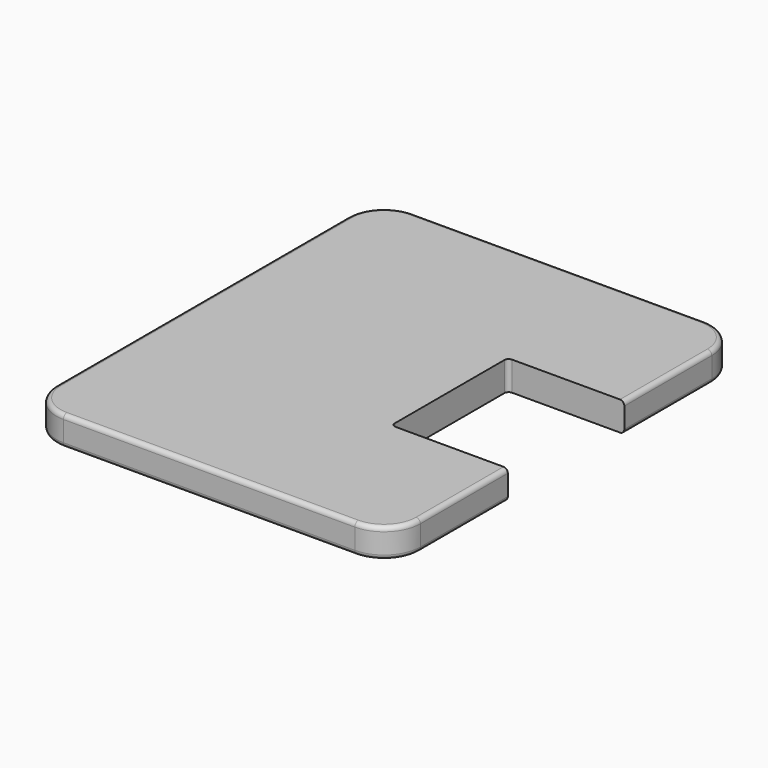
from build123d import *

# Parameters (mm, degrees)
F1_DEPTH = 20
F2_R     = 3
F3_W     = 3
F3_H     = 18
F4_DEPTH = 25
F6_W     = 3
F6_H     = 64
F7_DEPTH = 25


with BuildPart() as f1:
    # F0 (on Top) → F1 (new body)
    with BuildSketch(Plane.XY):
        with BuildLine():
            Line((-100, -150), (100, -150))
            ThreePointArc((100, -150), (117.67767, -142.67767), (125, -125))
            Line((125, -125), (125, 125))
            ThreePointArc((125, 125), (117.67767, 142.67767), (100, 150))
            Line((100, 150), (-100, 150))
            ThreePointArc((-100, 150), (-117.67767, 142.67767), (-125, 125))
            Line((-125, 125), (-125, -125))
            ThreePointArc((-125, -125), (-117.67767, -142.67767), (-100, -150))
        make_face()
    extrude(amount=F1_DEPTH)

    # F2
    f2_edges = [f1.edges().sort_by_distance(p)[0] for p in [
        (-117.67767, -142.67767, 20),
        (0, -150, 20),
        (117.67767, -142.67767, 20),
        (125, 0, 20),
        (117.67767, 142.67767, 20),
        (0, 150, 20),
        (-117.67767, 142.67767, 20),
        (-125, 0, 20),
        (-117.67767, -142.67767, 0),
        (0, -150, 0),
        (117.67767, -142.67767, 0),
        (125, 0, 0),
        (117.67767, 142.67767, 0),
        (0, 150, 0),
        (-117.67767, 142.67767, 0),
        (-125, 0, 0),
    ]]
    fillet(f2_edges, radius=F2_R)

    # F3 (on face) → F4 (cut)
    with BuildSketch(Plane(origin=(0, 0, 0), x_dir=(1, 0, 0), z_dir=(0, 0, -1))):
        with BuildLine():
            Line((122, 32), (122, 50))
            Line((122, 50), (48, 50))
            ThreePointArc((48, 50), (45.87868, 49.12132), (45, 47))
            Line((45, 47), (45, 35))
            ThreePointArc((45, 35), (45.87868, 32.87868), (48, 32))
            Line((48, 32), (122, 32))
        make_face()
        with Locations((123.5, 41)):
            Rectangle(F3_W, F3_H)
        with Locations((123.5, -41)):
            Rectangle(F3_W, F3_H)
        with BuildLine():
            Line((122, -50), (122, -32))
            Line((122, -32), (48, -32))
            ThreePointArc((48, -32), (45.87868, -32.87868), (45, -35))
            Line((45, -35), (45, -47))
            ThreePointArc((45, -47), (45.87868, -49.12132), (48, -50))
            Line((48, -50), (122, -50))
        make_face()
    extrude(amount=-F4_DEPTH, mode=Mode.SUBTRACT)

    # F3 (on face) + F6 (on face) → F7 (cut)
    with BuildSketch(Plane(origin=(0, 0, 0), x_dir=(1, 0, 0), z_dir=(0, 0, -1))):
        with BuildLine():
            Line((122, -32), (122, 32))
            Line((122, 32), (48, 32))
            ThreePointArc((48, 32), (45.87868, 32.87868), (45, 35))
            Line((45, 35), (45, -35))
            ThreePointArc((45, -35), (45.87868, -32.87868), (48, -32))
            Line((48, -32), (122, -32))
        make_face()
    with BuildSketch(Plane(origin=(0, 0, 0), x_dir=(1, 0, 0), z_dir=(0, 0, -1))):
        with Locations((123.5, 0)):
            Rectangle(F6_W, F6_H)
    extrude(amount=-F7_DEPTH, mode=Mode.SUBTRACT)


solid = f1.part
